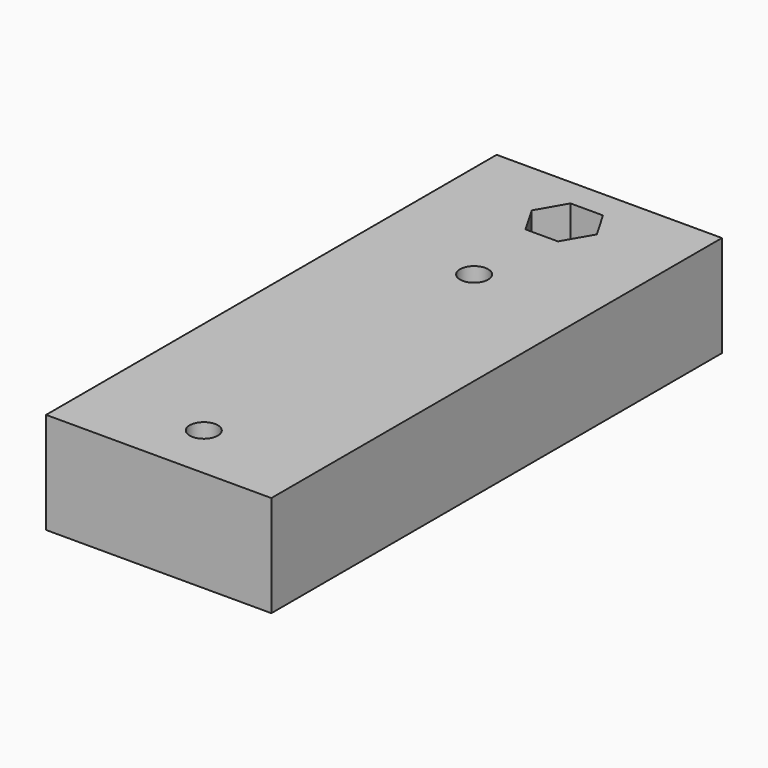
from build123d import *

# Parameters (mm, degrees)
SKETCH062_W          = 40
SKETCH062_H          = 100
PAD005_DEPTH         = 18
SKETCH063_R          = 3
SKETCH063_R_2        = 2.5
POCKET035_DEPTH      = 0.001
POCKET035_DEPTH_BACK = 18.001
POCKET041_DEPTH      = 7


with BuildPart() as part:
    # Sketch062 → Pad005 (new body)
    with BuildSketch(Plane.XY):
        Rectangle(SKETCH062_W, SKETCH062_H)
    extrude(amount=PAD005_DEPTH)

    # Sketch063 → Pocket035 (cut, two sides)
    with BuildSketch(Plane.XY) as pocket035_sk:
        with Locations((0, 40)):
            Circle(SKETCH063_R)
        with Locations((0, 20)):
            Circle(SKETCH063_R_2)
        with Locations((0, -40)):
            Circle(SKETCH063_R_2)
    extrude(amount=-POCKET035_DEPTH, mode=Mode.SUBTRACT)
    extrude(pocket035_sk.sketch, amount=POCKET035_DEPTH_BACK, mode=Mode.SUBTRACT)

    # Sketch092 → Pocket041 (cut)
    with BuildSketch(Plane(origin=(0, 40, 18), x_dir=(1, 0, 0), z_dir=(0, 0, 1))):
        Polygon((5.773503, 0), (2.886751, 5), (-2.886751, 5), (-5.773503, 0), (-2.886751, -5), (2.886751, -5), align=None)
    extrude(amount=-POCKET041_DEPTH, mode=Mode.SUBTRACT)


solid = part.part
